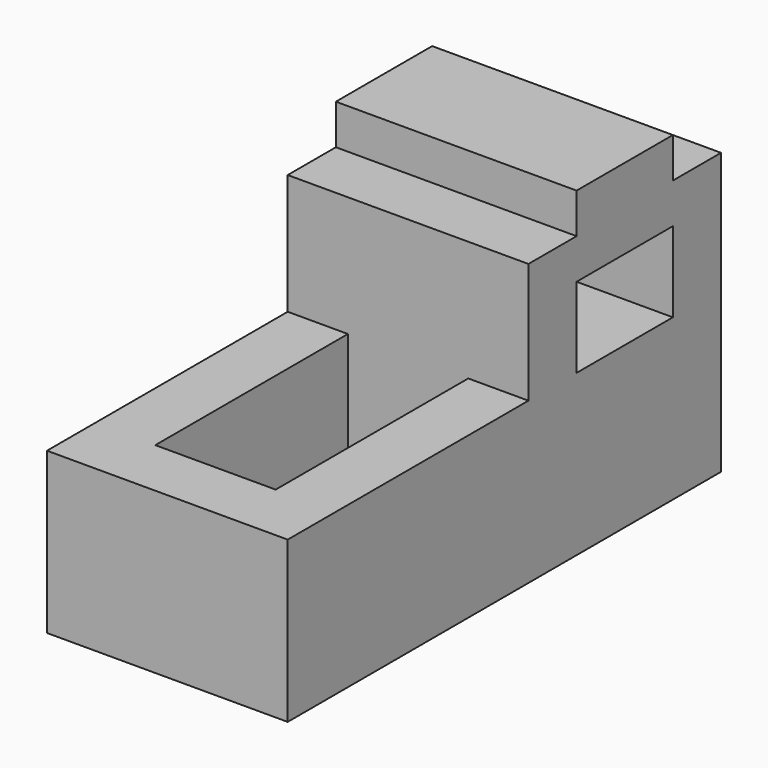
from build123d import *

# Parameters (mm, degrees)
F0_W     = 609.6
F0_H     = 406.4
F1_DEPTH = 1219.2
F2_W     = 609.6
F2_H     = 1219.2
F3_DEPTH = 609.6
F4_W     = 609.6
F4_H     = 1219.2
F5_DEPTH = 609.6


with BuildPart() as f1:
    # F0 (on Right) → F1 (new body)
    with BuildSketch(Plane.YZ):
        Polygon((0, 812.8), (0, 0), (2743.2, 0), (2743.2, 1422.4), (2438.4, 1422.4), (2438.4, 1625.6), (1828.8, 1625.6), (1828.8, 1422.4), (1524, 1422.4), (1524, 812.8), align=None)
        with Locations((2133.6, 1016)):
            Rectangle(F0_W, F0_H, mode=Mode.SUBTRACT)
    extrude(amount=F1_DEPTH)

    # F2 (on Top) → F3 (join)
    with BuildSketch(Plane.XY):
        with Locations((609.6, 812.8)):
            Rectangle(F2_W, F2_H)
    extrude(amount=F3_DEPTH)

    # F4 (on face) → F5 (cut)
    with BuildSketch(Plane.XY.offset(812.8)):
        with Locations((609.6, 914.4)):
            Rectangle(F4_W, F4_H)
    extrude(amount=-F5_DEPTH, mode=Mode.SUBTRACT)


solid = f1.part
